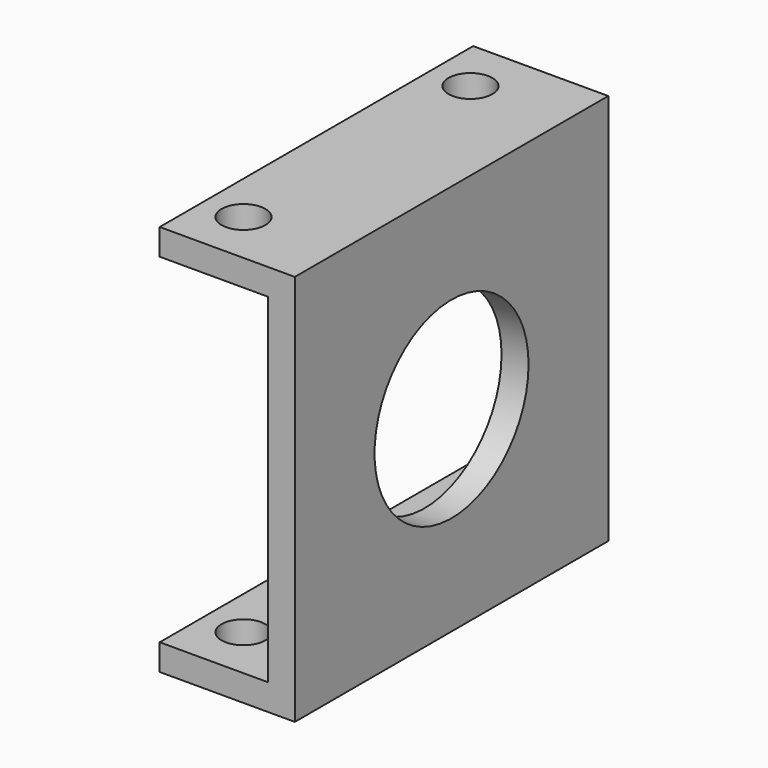
from build123d import *

# Parameters (mm, degrees)
F0_W     = 92.075
F0_H     = 92.075
F1_DEPTH = 25.4
F2_W     = 165.1
F2_H     = 79.756
F3_DEPTH = 19.05
F4_R     = 22.621875
F5_DEPTH = 25.401
F6_W     = 92.075
F6_H     = 6.1595
F7_DEPTH = 6.35
F8_R     = 5.1562
F9_DEPTH = 92.076


with BuildPart() as f1:
    # F0 (on Right) → F1 (new body)
    with BuildSketch(Plane.YZ):
        Rectangle(F0_W, F0_H)
    extrude(amount=F1_DEPTH)

    # F2 (on face) → F3 (cut)
    with BuildSketch(Plane(origin=(0, 0, 0), x_dir=(0, -1, 0), z_dir=(-1, 0, 0))):
        Rectangle(F2_W, F2_H)
    extrude(amount=-F3_DEPTH, mode=Mode.SUBTRACT)

    # F4 (on face) → F5 (cut, through all)
    with BuildSketch(Plane.YZ.offset(25.4)):
        Circle(F4_R)
    extrude(amount=-F5_DEPTH, mode=Mode.SUBTRACT)

    # F6 (on face) → F7 (join)
    with BuildSketch(Plane(origin=(0, 0, 0), x_dir=(0, -1, 0), z_dir=(-1, 0, 0))):
        with Locations((0, 42.95775)):
            Rectangle(F6_W, F6_H)
        with Locations((0, -42.95775)):
            Rectangle(F6_W, F6_H)
    extrude(amount=F7_DEPTH)

    # F8 (on face) → F9 (cut, through all)
    with BuildSketch(Plane.XY.offset(46.0375)):
        with Locations((3.175, -33.3375)):
            Circle(F8_R)
        with Locations((3.175, 33.3375)):
            Circle(F8_R)
    extrude(amount=-F9_DEPTH, mode=Mode.SUBTRACT)


solid = f1.part
